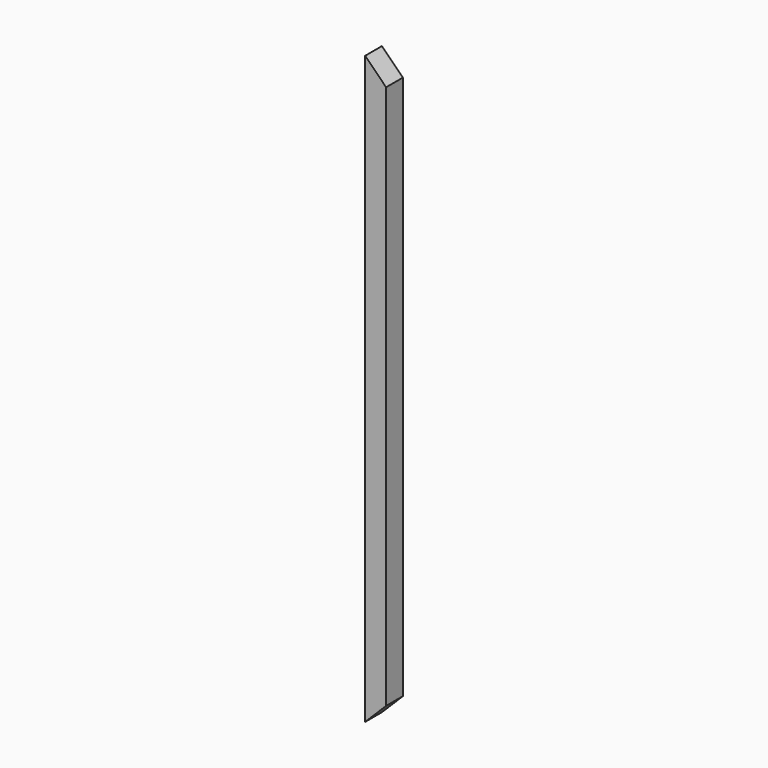
from build123d import *

# Parameters (mm, degrees)
F0_W     = 38.1
F0_H     = 38.1
F1_DEPTH = 1066.8
F3_DEPTH = 38.1
F4_DEPTH = 38.1


with BuildPart() as f1:
    # F0 (on Top) → F1 (new body)
    with BuildSketch(Plane.XY):
        Rectangle(F0_W, F0_H)
    extrude(amount=F1_DEPTH)

    # F2 (on face) → F3 (cut)
    with BuildSketch(Plane.XZ.offset(19.05)):
        Polygon((19.05, 1066.8), (-19.05, 1066.8), (19.05, 1028.7), align=None)
    extrude(amount=-F3_DEPTH, mode=Mode.SUBTRACT)

    # F2 (on face) → F4 (cut)
    with BuildSketch(Plane.XZ.offset(19.05)):
        Polygon((19.05, 38.1), (-19.05, 0), (19.05, 0), align=None)
    extrude(amount=-F4_DEPTH, mode=Mode.SUBTRACT)


solid = f1.part
